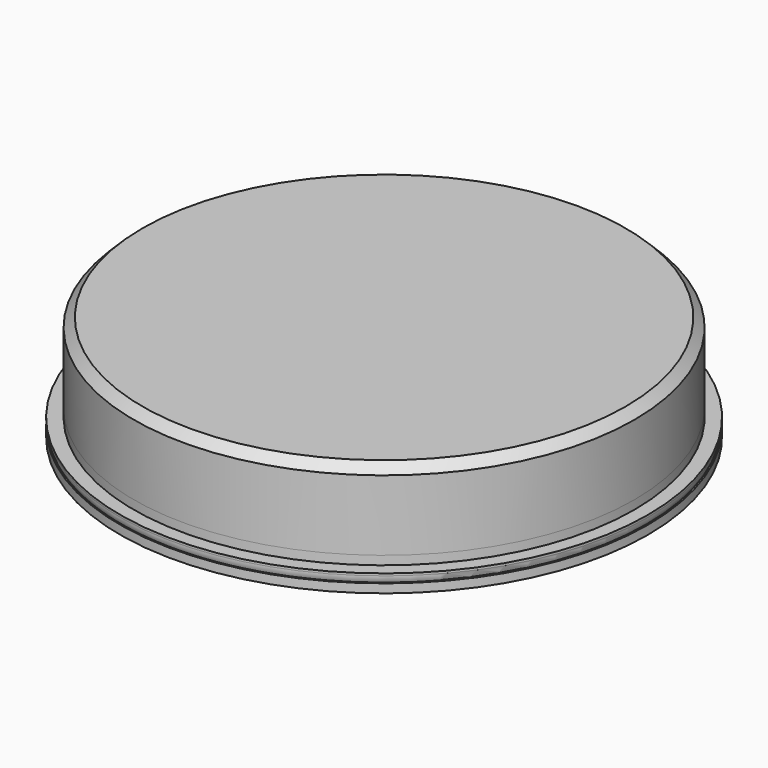
from build123d import *

# Parameters (mm, degrees)
SKETCH_R     = 30
PAD_DEPTH    = 2
SKETCH001_R  = 28.45
PAD001_DEPTH = 10
FILLET_R     = 1.75
CHAMFER_SIZE = 1
SKETCH002_R  = 30
PAD002_DEPTH = 1
SKETCH003_R  = 28.45
PAD003_DEPTH = 2
SKETCH004_R  = 25.699006
POCKET_DEPTH = 2


with BuildPart() as body:
    # Sketch → Pad (new body)
    with BuildSketch(Plane.XY):
        Circle(SKETCH_R)
    extrude(amount=PAD_DEPTH)

    # Sketch001 (on Face3 of Pad) → Pad001 (join)
    with BuildSketch(Plane.XY.offset(2)):
        Circle(SKETCH001_R)
    extrude(amount=PAD001_DEPTH)

    # Fillet
    fillet_edges = [body.edges().sort_by_distance(p)[0] for p in [
        (-30, 0, 0),
    ]]
    fillet(fillet_edges, radius=FILLET_R)

    # Chamfer
    chamfer_edges = [body.edges().sort_by_distance(p)[0] for p in [
        (-28.45, 0, 12),
    ]]
    chamfer(chamfer_edges, length=CHAMFER_SIZE)


with BuildPart() as body001:
    # Sketch002 → Pad002 (new body)
    with BuildSketch(Plane.XY):
        Circle(SKETCH002_R)
    extrude(amount=PAD002_DEPTH)

    # Sketch003 (on Face3 of Pad002) → Pad003 (join)
    with BuildSketch(Plane.XY.offset(1)):
        Circle(SKETCH003_R)
    extrude(amount=PAD003_DEPTH)

    # Sketch004 (on Face5 of Pad003) → Pocket (cut)
    with BuildSketch(Plane.XY.offset(3)):
        Circle(SKETCH004_R)
    extrude(amount=-POCKET_DEPTH, mode=Mode.SUBTRACT)


solid = Compound([body.part, body001.part])
